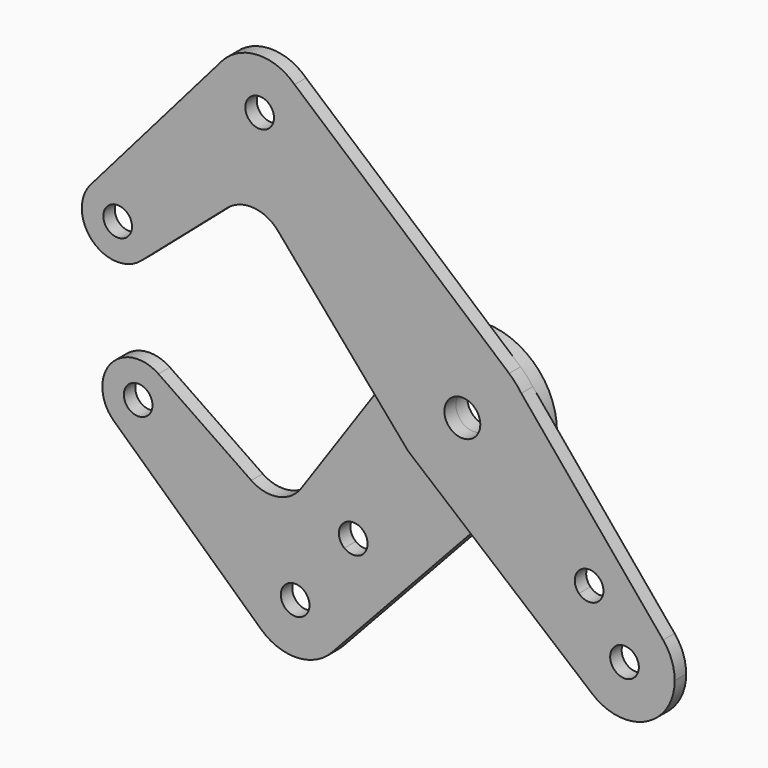
from build123d import *

# Parameters (mm, degrees)
F0_R     = 3.175
F0_R_2   = 3.9751
F1_DEPTH = 3.175
F2_R     = 3.175
F2_R_2   = 3.9751
F3_DEPTH = 3.175


with BuildPart() as f1:
    # F0 (on Front) → F1 (new body)
    with BuildSketch(Plane.XZ):
        with BuildLine():
            ThreePointArc((-12.043522, -10.342591), (-11.221295, 11.229344), (10.351223, 12.036104))
            Line((10.351223, 12.036104), (-37.153666, 52.890995))
            ThreePointArc((-37.153666, 52.890995), (-34.655856, 49.244679), (-33.776906, 44.913152))
            ThreePointArc((-33.776906, 44.913152), (-48.773737, 34.501638), (-53.286401, 52.19176))
            Line((-53.286401, 52.19176), (-82.326466, 18.689574))
            ThreePointArc((-82.326466, 18.689574), (-73.55409, 20.927364), (-68.391112, 13.490568))
            ThreePointArc((-68.391112, 13.490568), (-69.108992, 10.191933), (-71.132779, 7.489966))
            Line((-71.132779, 7.489966), (-52.061254, 24.003719))
            ThreePointArc((-52.061254, 24.003719), (-46.270956, 25.922078), (-40.825712, 23.173085))
            Line((-40.825712, 23.173085), (-12.043522, -10.342591))
        make_face()
        with BuildLine():
            ThreePointArc((-33.776906, 44.913152), (-34.655856, 49.244679), (-37.153666, 52.890995))
            ThreePointArc((-37.153666, 52.890995), (-45.370599, 56.015229), (-53.286401, 52.19176))
            ThreePointArc((-53.286401, 52.19176), (-48.773737, 34.501638), (-33.776906, 44.913152))
        make_face()
        with Locations((-44.889406, 44.913152)):
            Circle(F0_R, mode=Mode.SUBTRACT)
        with BuildLine():
            ThreePointArc((-68.391112, 13.490568), (-73.55409, 20.927364), (-82.326466, 18.689574))
            ThreePointArc((-82.326466, 18.689574), (-81.942756, 7.879392), (-71.132779, 7.489966))
            ThreePointArc((-71.132779, 7.489966), (-69.108992, 10.191933), (-68.391112, 13.490568))
        make_face()
        with Locations((-76.328612, 13.490568)):
            Circle(F0_R, mode=Mode.SUBTRACT)
        with BuildLine():
            ThreePointArc((-8.037107, -13.690162), (7.887539, -13.776877), (15.875, 0))
            ThreePointArc((15.875, 0), (15.152816, 4.733687), (13.051972, 9.036684))
            ThreePointArc((13.051972, 9.036684), (11.79731, 10.622576), (10.351223, 12.036104))
            ThreePointArc((10.351223, 12.036104), (-11.221295, 11.229344), (-12.043522, -10.342591))
            Line((-12.043522, -10.342591), (-8.037107, -13.690162))
        make_face()
        Circle(F0_R_2, mode=Mode.SUBTRACT)
        with BuildLine():
            ThreePointArc((13.051972, 9.036684), (15.152816, 4.733687), (15.875, 0))
            ThreePointArc((15.875, 0), (7.887539, -13.776877), (-8.037107, -13.690162))
            Line((-8.037107, -13.690162), (28.786313, -44.458066))
            ThreePointArc((28.786313, -44.458066), (28.068027, -28.058597), (44.464791, -28.836207))
            Line((44.464791, -28.836207), (13.051972, 9.036684))
        make_face()
        with BuildLine():
            ThreePointArc((25.820386, -25.834045), (26.851412, -20.656097), (31.241044, -23.589575))
            ThreePointArc((31.241044, -23.589575), (29.280676, -26.523053), (25.820386, -25.834045))
        make_face(mode=Mode.SUBTRACT)
        with BuildLine():
            ThreePointArc((47.024025, -35.930522), (46.364654, -32.159614), (44.464791, -28.836207))
            ThreePointArc((44.464791, -28.836207), (28.068027, -28.058597), (28.786313, -44.458066))
            ThreePointArc((28.786313, -44.458066), (40.618368, -45.996965), (47.024025, -35.930522))
        make_face()
        with Locations((35.911525, -35.930522)):
            Circle(F0_R, mode=Mode.SUBTRACT)
    extrude(amount=F1_DEPTH)

    # F2 (on Front) → F3 (join)
    with BuildSketch(Plane.XZ):
        with BuildLine():
            ThreePointArc((11.640623, -10.79405), (-9.929683, -12.386162), (-13.067664, 9.013978))
            Line((-13.067664, 9.013978), (-38.234496, -27.47066))
            ThreePointArc((-38.234496, -27.47066), (-43.332686, -30.774036), (-49.275206, -29.512973))
            Line((-49.275206, -29.512973), (-69.846496, -15.426666))
            ThreePointArc((-69.846496, -15.426666), (-67.309692, -18.274033), (-66.393606, -21.975878))
            ThreePointArc((-66.393606, -21.975878), (-71.142789, -29.24489), (-79.707254, -27.815479))
            Line((-79.707254, -27.815479), (-47.089017, -57.845007))
            ThreePointArc((-47.089017, -57.845007), (-48.001609, -42.439933), (-32.638988, -40.977391))
            ThreePointArc((-32.638988, -40.977391), (-29.551811, -44.845089), (-28.44991, -49.669565))
            ThreePointArc((-28.44991, -49.669565), (-29.217432, -53.727777), (-31.413974, -57.2254))
            Line((-31.413974, -57.2254), (11.640623, -10.79405))
        make_face()
        with BuildLine():
            ThreePointArc((-23.521714, -33.517023), (-25.318293, -36.377194), (-28.674835, -36.000501))
            ThreePointArc((-28.674835, -36.000501), (-28.075136, -30.656851), (-23.521714, -33.517023))
        make_face(mode=Mode.SUBTRACT)
        with BuildLine():
            ThreePointArc((-66.393606, -21.975878), (-67.309692, -18.274033), (-69.846496, -15.426666))
            ThreePointArc((-69.846496, -15.426666), (-80.541531, -17.032749), (-79.707254, -27.815479))
            ThreePointArc((-79.707254, -27.815479), (-71.142789, -29.24489), (-66.393606, -21.975878))
        make_face()
        with Locations((-74.331106, -21.975878)):
            Circle(F2_R, mode=Mode.SUBTRACT)
        with BuildLine():
            ThreePointArc((11.640623, -10.79405), (14.77854, -5.797445), (15.875, 0))
            ThreePointArc((15.875, 0), (4.720512, 15.156926), (-13.067664, 9.013978))
            ThreePointArc((-13.067664, 9.013978), (-9.929683, -12.386162), (11.640623, -10.79405))
        make_face()
        Circle(F2_R_2, mode=Mode.SUBTRACT)
        with BuildLine():
            ThreePointArc((-47.089017, -57.845007), (-39.123496, -60.773394), (-31.413974, -57.2254))
            ThreePointArc((-31.413974, -57.2254), (-29.217432, -53.727777), (-28.44991, -49.669565))
            ThreePointArc((-28.44991, -49.669565), (-29.551811, -44.845089), (-32.638988, -40.977391))
            ThreePointArc((-32.638988, -40.977391), (-48.001609, -42.439933), (-47.089017, -57.845007))
        make_face()
        with BuildLine():
            ThreePointArc((-36.38741, -49.669565), (-42.422581, -51.047987), (-37.58429, -47.186087))
            ThreePointArc((-37.58429, -47.186087), (-36.702239, -48.291143), (-36.38741, -49.669565))
        make_face(mode=Mode.SUBTRACT)
    extrude(amount=-F3_DEPTH)


solid = f1.part
